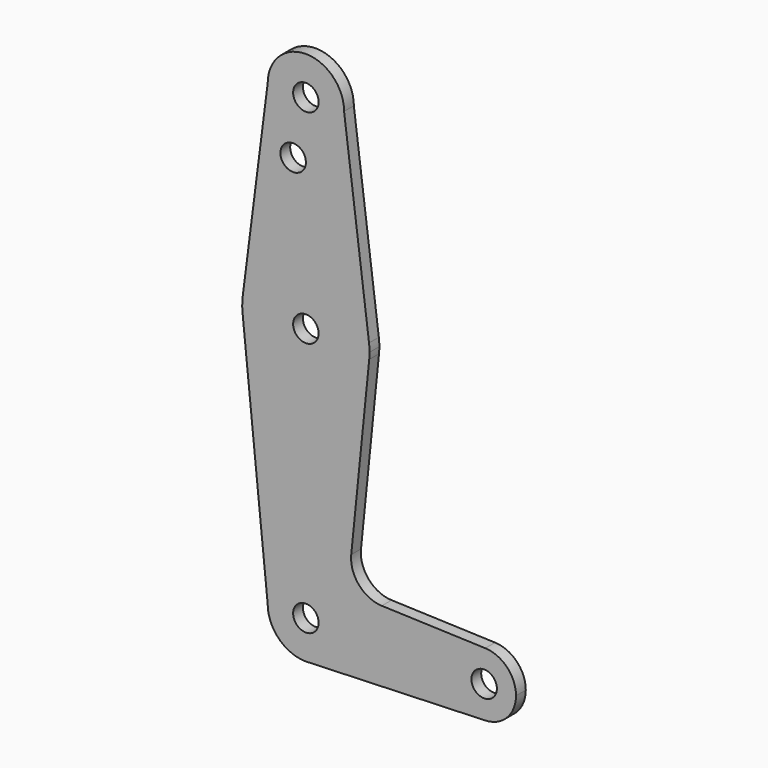
from build123d import *

# Parameters (mm, degrees)
F0_R     = 3.175
F1_DEPTH = 3.048


with BuildPart() as f1:
    # F0 (on Front) → F1 (new body)
    with BuildSketch(Plane.XZ):
        with BuildLine():
            ThreePointArc((-9.525, 114.3), (0, 104.775), (9.525, 114.3))
            ThreePointArc((9.525, 114.3), (0, 123.825), (-9.525, 114.3))
        make_face()
        with Locations((0, 114.3)):
            Circle(F0_R, mode=Mode.SUBTRACT)
        with BuildLine():
            Line((15.747457, 65.508289), (9.525, 114.3))
            ThreePointArc((9.525, 114.3), (0, 104.775), (-9.525, 114.3))
            Line((-9.525, 114.3), (-15.747457, 65.508289))
            ThreePointArc((-15.747457, 65.508289), (0, 79.375), (15.747457, 65.508289))
        make_face()
        with Locations((-3.175, 100.0252)):
            Circle(F0_R, mode=Mode.SUBTRACT)
        with BuildLine():
            ThreePointArc((15.875, 63.5), (15.843082, 64.506168), (15.747457, 65.508289))
            ThreePointArc((15.747457, 65.508289), (0, 79.375), (-15.747457, 65.508289))
            ThreePointArc((-15.747457, 65.508289), (-15.873668, 63.705667), (-15.794203, 61.90038))
            ThreePointArc((-15.794203, 61.90038), (0, 47.625), (15.794203, 61.90038))
            ThreePointArc((15.794203, 61.90038), (15.854788, 62.699171), (15.875, 63.5))
        make_face()
        with Locations((0, 63.5)):
            Circle(F0_R, mode=Mode.SUBTRACT)
        with BuildLine():
            ThreePointArc((15.794203, 61.90038), (0, 47.625), (-15.794203, 61.90038))
            Line((-15.794203, 61.90038), (-9.525, 0))
            ThreePointArc((-9.525, 0), (0, 9.525), (9.525, 0))
            ThreePointArc((9.525, 0), (6.970557, -6.491299), (0.677344, -9.500886))
            Line((0.677344, -9.500886), (44.732405, -7.932475))
            ThreePointArc((44.732405, -7.932475), (36.5125, 0), (44.732405, 7.932475))
            Line((44.732405, 7.932475), (18.934103, 8.850924))
            ThreePointArc((18.934103, 8.850924), (13.224974, 11.57098), (11.307223, 17.59718))
            Line((11.307223, 17.59718), (15.794203, 61.90038))
        make_face()
        with BuildLine():
            ThreePointArc((9.525, 0), (0, 9.525), (-9.525, 0))
            ThreePointArc((-9.525, 0), (-6.735192, -6.735192), (0, -9.525))
            Line((0, -9.525), (0.677344, -9.500886))
            ThreePointArc((0.677344, -9.500886), (6.970557, -6.491299), (9.525, 0))
        make_face()
        Circle(F0_R, mode=Mode.SUBTRACT)
        with BuildLine():
            Line((0.677344, -9.500886), (0, -9.525))
            ThreePointArc((0, -9.525), (0.338886, -9.51897), (0.677344, -9.500886))
        make_face()
        with BuildLine():
            ThreePointArc((52.3875, 0), (50.161633, 5.51191), (44.732405, 7.932475))
            ThreePointArc((44.732405, 7.932475), (36.5125, 0), (44.732405, -7.932475))
            ThreePointArc((44.732405, -7.932475), (50.161633, -5.51191), (52.3875, 0))
        make_face()
        with Locations((44.45, 0)):
            Circle(F0_R, mode=Mode.SUBTRACT)
    extrude(amount=F1_DEPTH)


solid = f1.part
